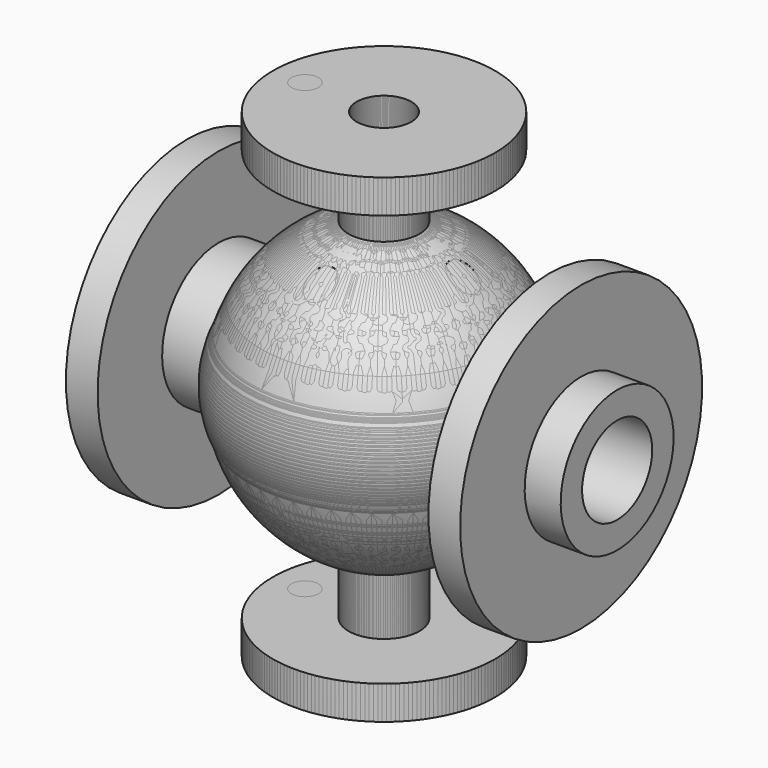
from build123d import *

# Parameters (mm, degrees)
F0_W     = 22.1329842078
F0_H     = 56.2650858622
F4_R     = 19.05
F4_R_2   = 9.3974672838
F5_DEPTH = 334.2918139168
F6_COUNT = 4
F7_R     = 30.560889445
F8_DEPTH = 325.2344079224


with BuildPart() as f1:
    # F0 (on Front) → F1 (revolve)
    with BuildSketch(Plane.XZ):
        with BuildLine():
            ThreePointArc((71.4587831087, -30.560889445), (42.8085717077, -64.8671861221), (0, -77.7195319533))
            Line((0, -77.7195319533), (0, -167.1454069584))
            Line((0, -167.1454069584), (77.4904116988, -167.1454069584))
            Line((77.4904116988, -167.1454069584), (77.4904116988, -143.6964869499))
            Line((77.4904116988, -143.6964869499), (24.7178599238, -143.6964869499))
            Line((24.7178599238, -143.6964869499), (24.7178599238, -102.8357562148))
            ThreePointArc((24.7178599238, -102.8357562148), (61.1936853026, -82.2509037056), (86.950359739, -49.2234043777))
            ThreePointArc((86.950359739, -49.2234043777), (91.0199775145, -40.0627239936), (94.2129376067, -30.560889445))
            ThreePointArc((94.2129376067, -30.560889445), (100.973405629, 0.092690348), (93.4212717722, 30.560889445))
            ThreePointArc((93.4212717722, 30.560889445), (89.9405978502, 40.0784955107), (85.5736128505, 49.2234043777))
            ThreePointArc((85.5736128505, 49.2234043777), (60.0552644321, 80.5667964741), (24.7178599238, 100.1847009681))
            Line((24.7178599238, 100.1847009681), (24.7178599238, 143.6964869499))
            Line((24.7178599238, 143.6964869499), (77.4904116988, 143.6964869499))
            Line((77.4904116988, 143.6964869499), (77.4904116988, 167.1454069584))
            Line((77.4904116988, 167.1454069584), (0, 167.1454069584))
            Line((0, 167.1454069584), (0, 77.7195319533))
            ThreePointArc((0, 77.7195319533), (42.8085717077, 64.8671861221), (71.4587831087, 30.560889445))
            ThreePointArc((71.4587831087, 30.560889445), (76.7656006611, 0), (71.4587831087, -30.560889445))
        make_face()
    revolve(axis=Axis((0, 0, 0), (0, 0, -1)))

    # F4 (on face) → F5 (cut, through all)
    with BuildSketch(Plane.XY.offset(167.1454069584)):
        Circle(F4_R)
        with Locations((0, 55.1754236221)):
            Circle(F4_R_2)
    extrude(amount=-F5_DEPTH, mode=Mode.SUBTRACT)


with BuildPart() as f2:
    # F0 (on Front) → F2 (revolve)
    with BuildSketch(Plane.XZ):
        with BuildLine():
            ThreePointArc((85.5736128505, 49.2234043777), (89.9405978502, 40.0784955107), (93.4212717722, 30.560889445))
            Line((93.4212717722, 30.560889445), (162.6167039612, 30.560889445))
            Line((162.6167039612, 30.560889445), (162.6167039612, 49.2234043777))
            Line((162.6167039612, 49.2234043777), (137.4929489843, 49.2234043777))
            Line((137.4929489843, 49.2234043777), (115.3599647765, 49.2234043777))
            Line((115.3599647765, 49.2234043777), (85.5736128505, 49.2234043777))
        make_face()
        with Locations((126.4264568804, 77.3559473088)):
            Rectangle(F0_W, F0_H)
    revolve(axis=Axis((100.7935404778, 0, 0), (1, 0, 0)))


with BuildPart() as f3_1:
    # F3: instance of F2
    add(f2.part.mirror(Plane.YZ))


with BuildPart() as f6_1:
    # F6: instance of F1
    add(f1.part.rotate(Axis((0, 0, 0), (0, 0, -1)), 1 * 360 / F6_COUNT))


with BuildPart() as f6_2:
    # F6: instance of F1
    add(f1.part.rotate(Axis((0, 0, 0), (0, 0, -1)), 2 * 360 / F6_COUNT))


with BuildPart() as f6_3:
    # F6: instance of F1
    add(f1.part.rotate(Axis((0, 0, 0), (0, 0, -1)), 3 * 360 / F6_COUNT))


with BuildPart() as f8_tool:
    # F7 (on face) → F8 (new body, through all)
    with BuildSketch(Plane.YZ.offset(162.6167039612)):
        Circle(F7_R)
    extrude(amount=-F8_DEPTH)


with BuildPart() as f1_1:
    add(f1.part)

    # F8: cut by f8_tool
    add(f8_tool.part, mode=Mode.SUBTRACT)


with BuildPart() as f6_1_1:
    add(f6_1.part)

    # F8: cut by f8_tool
    add(f8_tool.part, mode=Mode.SUBTRACT)


with BuildPart() as f6_2_1:
    add(f6_2.part)

    # F8: cut by f8_tool
    add(f8_tool.part, mode=Mode.SUBTRACT)


with BuildPart() as f6_3_1:
    add(f6_3.part)

    # F8: cut by f8_tool
    add(f8_tool.part, mode=Mode.SUBTRACT)


solid = Compound([f2.part, f3_1.part, f1_1.part, f6_1_1.part, f6_2_1.part, f6_3_1.part])
